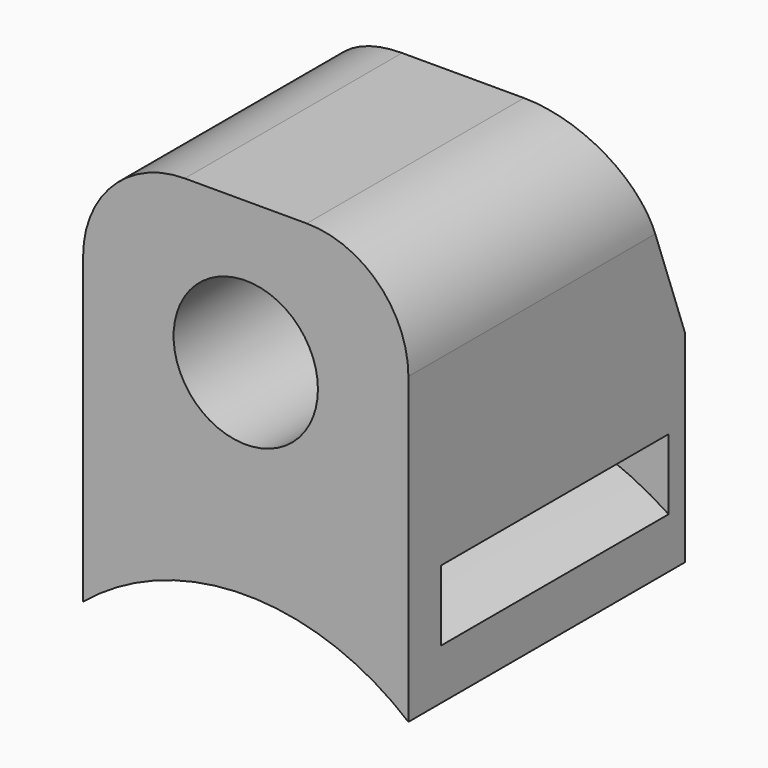
from build123d import *

# Parameters (mm, degrees)
F1_DEPTH  = 15
F3_DEPTH  = 2
F5_R      = 3.55
F8_DEPTH  = 25
F11_DEPTH = 1
F12_R     = 5


with BuildPart() as f1:
    # F0 (on Front) → F1 (new body)
    with BuildSketch(Plane.XZ):
        with BuildLine():
            ThreePointArc((-8, 9.6046863561), (0, 12.5), (8, 9.6046863561))
            Line((8, 9.6046863561), (8, 12.0933866224))
            ThreePointArc((8, 12.0933866224), (0, 14.5), (-8, 12.0933866224))
            Line((-8, 12.0933866224), (-8, 9.6046863561))
        make_face()
    extrude(amount=F1_DEPTH)


with BuildPart() as f1b:
    # F0 (on Front) → F1, piece 2 (new body)
    with BuildSketch(Plane.XZ):
        with BuildLine():
            ThreePointArc((-8, 15.5643824163), (0, 17.5), (8, 15.5643824163))
            Line((8, 15.5643824163), (8, 29.5643824163))
            Line((8, 29.5643824163), (-8, 29.5643824163))
            Line((-8, 29.5643824163), (-8, 15.5643824163))
        make_face()
    extrude(amount=F1_DEPTH)


with BuildPart() as f3:
    # F2 (on face) → F3 (new body)
    with BuildSketch(Plane.XZ.offset(15)):
        with BuildLine():
            ThreePointArc((-8, 9.6046863561), (0, 12.5), (8, 9.6046863561))
            Line((8, 9.6046863561), (8, 12.0933866224))
            ThreePointArc((8, 12.0933866224), (0, 14.5), (-8, 12.0933866224))
            Line((-8, 12.0933866224), (-8, 9.6046863561))
        make_face()
        with BuildLine():
            ThreePointArc((-8, 12.0933866224), (0, 14.5), (8, 12.0933866224))
            Line((8, 12.0933866224), (8, 15.5643824163))
            ThreePointArc((8, 15.5643824163), (0, 17.5), (-8, 15.5643824163))
            Line((-8, 15.5643824163), (-8, 12.0933866224))
        make_face()
        with BuildLine():
            ThreePointArc((-8, 15.5643824163), (0, 17.5), (8, 15.5643824163))
            Line((8, 15.5643824163), (8, 29.5643824163))
            Line((8, 29.5643824163), (-8, 29.5643824163))
            Line((-8, 29.5643824163), (-8, 15.5643824163))
        make_face()
    extrude(amount=F3_DEPTH)


with BuildPart() as f6_tool:
    # F6: sweep along a path in F4
    with BuildLine(Plane.YZ.offset(8)) as f6_path:
        Line((-16, 22.5643824163), (-10, 22.5643824163))
        Line((-10, 22.5643824163), (0, 26.2040847589))
        Line((0, 26.2040847589), (4.1724268391, 27.722723933))
    # F5 (on face) → F6 (sweep)
    with BuildSketch(Plane.XZ.offset(17)):
        with Locations((0, 22.5643824163)):
            Circle(F5_R)
    sweep(path=f6_path.line, transition=Transition.RIGHT)


with BuildPart() as f1b_1:
    add(f1b.part)

    # F6: cut by f6_tool
    add(f6_tool.part, mode=Mode.SUBTRACT)

    # F7 (on face) → F8 (cut)
    with BuildSketch(Plane.YZ.offset(8)):
        Polygon((-3.6397023427, 29.5643824163), (0, 19.5643824163), (0, 29.5643824163), align=None)
    extrude(amount=-F8_DEPTH, mode=Mode.SUBTRACT)


with BuildPart() as f3_1:
    add(f3.part)

    # F6: cut by f6_tool
    add(f6_tool.part, mode=Mode.SUBTRACT)


with BuildPart() as f1_1:
    add(f1.part)

    # F9: union F1b, F3
    add(f1b_1.part)
    add(f3_1.part)

    # F10 (on face) → F11 (join)
    with BuildSketch(Plane(origin=(0, 0, 0), x_dir=(-1, 0, 0), z_dir=(0, 1, 0))):
        with BuildLine():
            ThreePointArc((8, 12.0933866224), (0, 14.5), (-8, 12.0933866224))
            Line((-8, 12.0933866224), (-8, 9.6046863561))
            ThreePointArc((-8, 9.6046863561), (0, 12.5), (8, 9.6046863561))
            Line((8, 9.6046863561), (8, 12.0933866224))
        make_face()
        with BuildLine():
            Line((-8, 15.5643824163), (-8, 12.0933866224))
            ThreePointArc((-8, 12.0933866224), (0, 14.5), (8, 12.0933866224))
            Line((8, 12.0933866224), (8, 15.5643824163))
            ThreePointArc((8, 15.5643824163), (0, 17.5), (-8, 15.5643824163))
        make_face()
        with BuildLine():
            Line((-8, 19.5643824163), (-8, 15.5643824163))
            ThreePointArc((-8, 15.5643824163), (0, 17.5), (8, 15.5643824163))
            Line((8, 15.5643824163), (8, 19.5643824163))
            Line((8, 19.5643824163), (-8, 19.5643824163))
        make_face()
    extrude(amount=-F11_DEPTH)

    # F12
    f12_edges = [f1_1.edges().sort_by_distance(p)[0] for p in [
        (8, -10.319851, 29.564382),
        (-8, -10.319851, 29.564382),
    ]]
    fillet(f12_edges, radius=F12_R)


solid = f1_1.part
